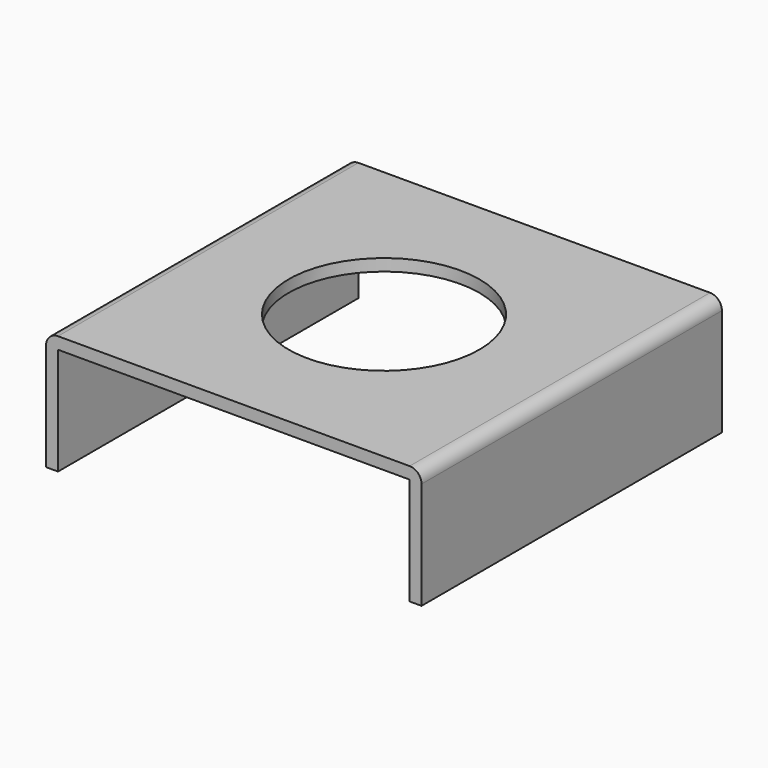
from build123d import *

# Parameters (mm, degrees)
F0_W     = 6.3
F0_H     = 6.3
F0_R     = 1.6
F1_DEPTH = 0.2
F2_W     = 0.2
F2_H     = 6.3
F3_DEPTH = 1.8
F4_R     = 0.2


with BuildPart() as f1:
    # F0 (on Top) → F1 (new body)
    with BuildSketch(Plane.XY):
        with Locations((3.15, 3.15)):
            Rectangle(F0_W, F0_H)
        with Locations((3.15, 3.15)):
            Circle(F0_R, mode=Mode.SUBTRACT)
    extrude(amount=F1_DEPTH)

    # F2 (on face) → F3 (join)
    with BuildSketch(Plane(origin=(0, 0, 0), x_dir=(1, 0, 0), z_dir=(0, 0, -1))):
        with Locations((0.1, -3.15)):
            Rectangle(F2_W, F2_H)
        with Locations((6.2, -3.15)):
            Rectangle(F2_W, F2_H)
    extrude(amount=F3_DEPTH)

    # F4
    f4_edges = [f1.edges().sort_by_distance(p)[0] for p in [
        (0, 3.15, 0.2),
        (6.3, 3.15, 0.2),
    ]]
    fillet(f4_edges, radius=F4_R)


solid = f1.part
